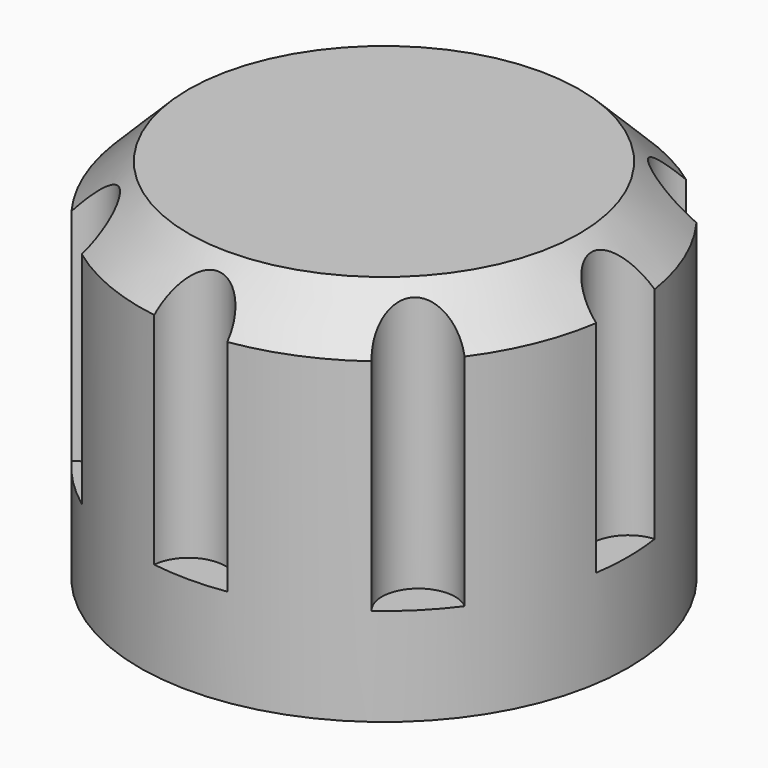
from build123d import *

# Parameters (mm, degrees)
CYLINDER001_R     = 1.5
CYLINDER001_DEPTH = 20
ARRAY_COUNT       = 8
CYLINDER_R        = 10
CYLINDER_DEPTH    = 15
CHAMFER_SIZE      = 2


with BuildPart() as array:
    # Cylinder001 → Cylinder001 (new body)
    with BuildSketch(Plane(origin=(10, 0, 0), x_dir=(1, 0, 0), z_dir=(0, 0, 1))):
        Circle(CYLINDER001_R)
    extrude(amount=CYLINDER001_DEPTH)

    # Array: Array ×8 about axis
    array_axis = Axis((0, 0, 0), (0, 0, 1))


with BuildPart() as array_1:
    add(array.part)
    for i in range(1, ARRAY_COUNT):
        add(array.part.rotate(array_axis, i * 360 / ARRAY_COUNT))


with BuildPart() as array_2:
    # Array placement: moved
    add(array_1.part.moved(Location((0, 0, 4))))


with BuildPart() as cut:
    # Cylinder → Cylinder (new body)
    with BuildSketch(Plane.XY):
        Circle(CYLINDER_R)
    extrude(amount=CYLINDER_DEPTH)

    # Chamfer
    chamfer_edges = [cut.edges().sort_by_distance(p)[0] for p in [
        (-10, 0, 15),
    ]]
    chamfer(chamfer_edges, length=CHAMFER_SIZE)

    # Cut: cut Array
    add(array_2.part, mode=Mode.SUBTRACT)


solid = cut.part
